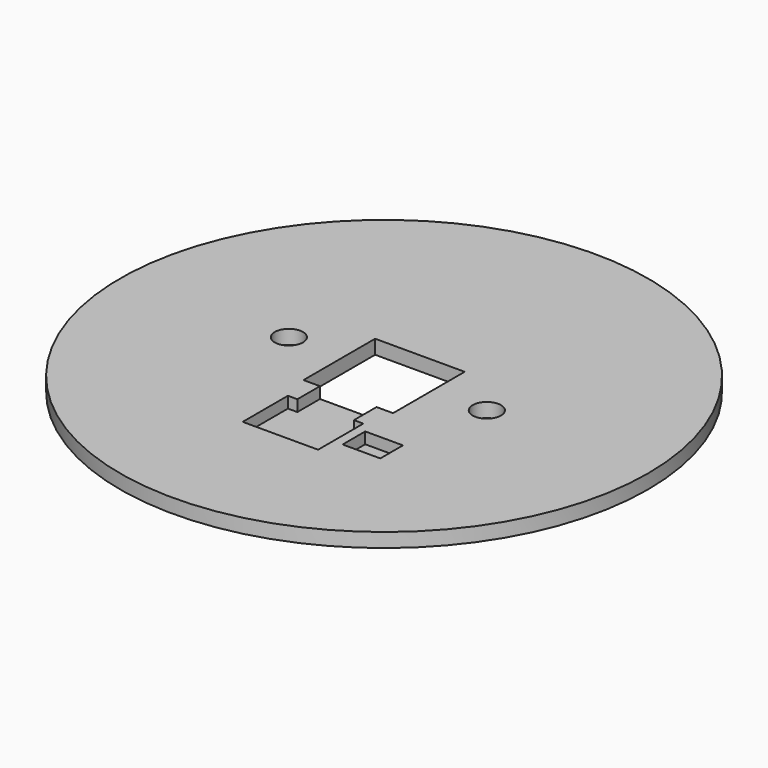
from build123d import *

# Parameters (mm, degrees)
F0_R     = 28
F0_W     = 4
F0_H     = 3
F0_R_2   = 1.5
F0_W_2   = 6
F1_DEPTH = 0.3
F2_DEPTH = 1.5


with BuildPart() as f1:
    # F0 (on Top) → F1 (new body)
    with BuildSketch(Plane.XY):
        Circle(F0_R)
        with Locations((7, -10.25)):
            Rectangle(F0_W, F0_H, mode=Mode.SUBTRACT)
        Polygon((-4.75, -4.75), (-4.75, 4.75), (4.75, 4.75), (4.75, -4.75), (3, -4.75), (3, -7.75), (4, -7.75), (4, -13.75), (-4, -13.75), (-4, -7.75), (-3, -7.75), (-3, -4.75), align=None, mode=Mode.SUBTRACT)
        with Locations((-10.5, 0.5)):
            Circle(F0_R_2, mode=Mode.SUBTRACT)
        with Locations((10.5, 0.5)):
            Circle(F0_R_2, mode=Mode.SUBTRACT)
        with Locations((7, -10.25)):
            Rectangle(F0_W, F0_H)
        Polygon((3, -7.75), (-3, -7.75), (-4, -7.75), (-4, -13.75), (4, -13.75), (4, -7.75), align=None)
        with Locations((0, -6.25)):
            Rectangle(F0_W_2, F0_H)
    extrude(amount=F1_DEPTH)

    # F0 (on Top) → F2 (join)
    with BuildSketch(Plane.XY):
        Circle(F0_R)
        with Locations((7, -10.25)):
            Rectangle(F0_W, F0_H, mode=Mode.SUBTRACT)
        Polygon((-4.75, -4.75), (-4.75, 4.75), (4.75, 4.75), (4.75, -4.75), (3, -4.75), (3, -7.75), (4, -7.75), (4, -13.75), (-4, -13.75), (-4, -7.75), (-3, -7.75), (-3, -4.75), align=None, mode=Mode.SUBTRACT)
        with Locations((-10.5, 0.5)):
            Circle(F0_R_2, mode=Mode.SUBTRACT)
        with Locations((10.5, 0.5)):
            Circle(F0_R_2, mode=Mode.SUBTRACT)
    extrude(amount=F2_DEPTH)


solid = f1.part
